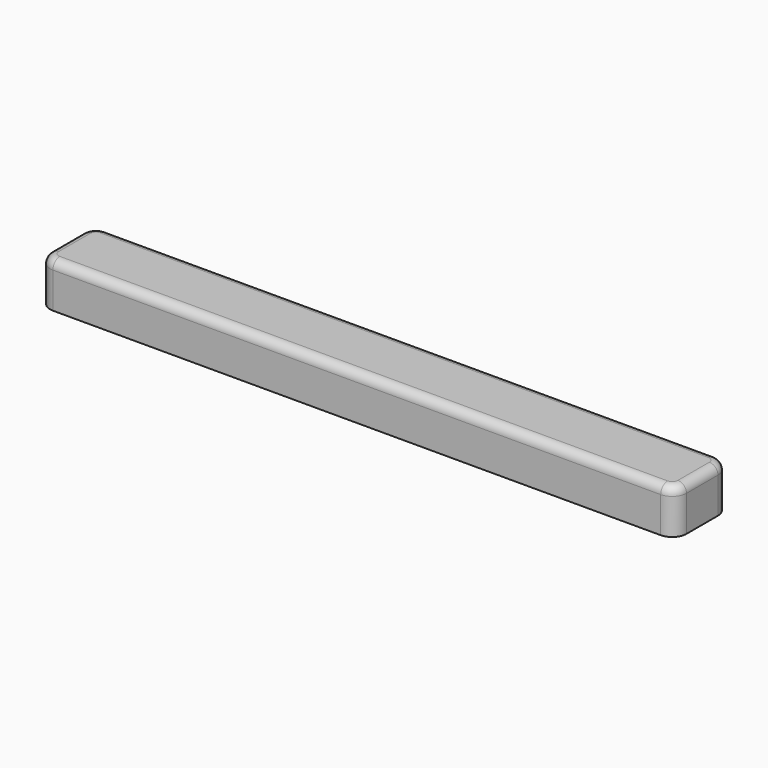
from build123d import *

# Parameters (mm, degrees)
SKETCH_W    = 95
SKETCH_H    = 62
PAD_DEPTH   = 890
FILLET_R    = 20
FILLET001_R = 12


with BuildPart() as part:
    # Sketch → Pad (new body)
    with BuildSketch(Plane.YZ):
        with Locations((47.5, 31)):
            Rectangle(SKETCH_W, SKETCH_H)
    extrude(amount=PAD_DEPTH)

    # Fillet
    fillet_edges = [part.edges().sort_by_distance(p)[0] for p in [
        (0, 0, 31),
        (890, 0, 31),
        (890, 95, 31),
        (0, 95, 31),
    ]]
    fillet(fillet_edges, radius=FILLET_R)

    # Fillet001
    fillet001_edges = [part.edges().sort_by_distance(p)[0] for p in [
        (445, 95, 62),
        (5.857864, 89.142136, 62),
        (884.142136, 89.142136, 62),
        (0, 47.5, 62),
        (890, 47.5, 62),
        (5.857864, 5.857864, 62),
        (884.142136, 5.857864, 62),
        (445, 0, 62),
    ]]
    fillet(fillet001_edges, radius=FILLET001_R)


solid = part.part
